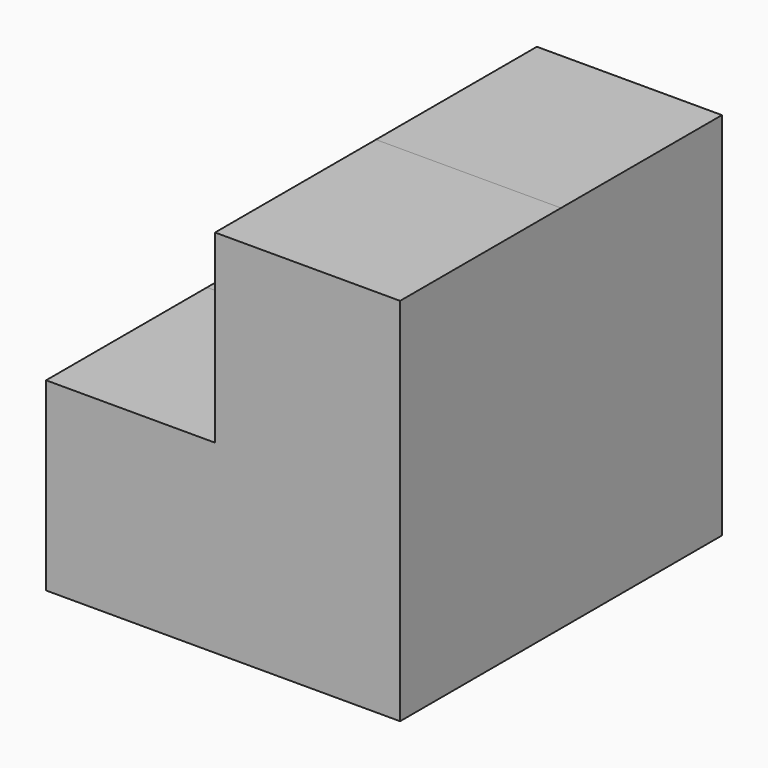
from build123d import *

# Parameters (mm, degrees)
F1_DEPTH = 25
F3_DEPTH = 25


with BuildPart() as f1:
    # F0 (on Front) → F1 (new body)
    with BuildSketch(Plane.XZ):
        Polygon((23, 23.400001), (0, 23.400001), (0, 0.400001), (-21, 0.400001), (-21, -22.599999), (23, -22.599999), align=None)
    extrude(amount=F1_DEPTH)

    # F1_face (on face) → F3 (join)
    with BuildSketch(Plane(origin=(4.604478, 0, -3.204476), x_dir=(1, 0, 0), z_dir=(0, 1, 0))):
        Polygon((18.395522, -26.604478), (18.395522, 19.395522), (-25.604478, 19.395522), (-25.604478, -3.604478), (-4.604478, -3.604478), (-4.604478, -26.604478), align=None)
    extrude(amount=F3_DEPTH)


solid = f1.part
